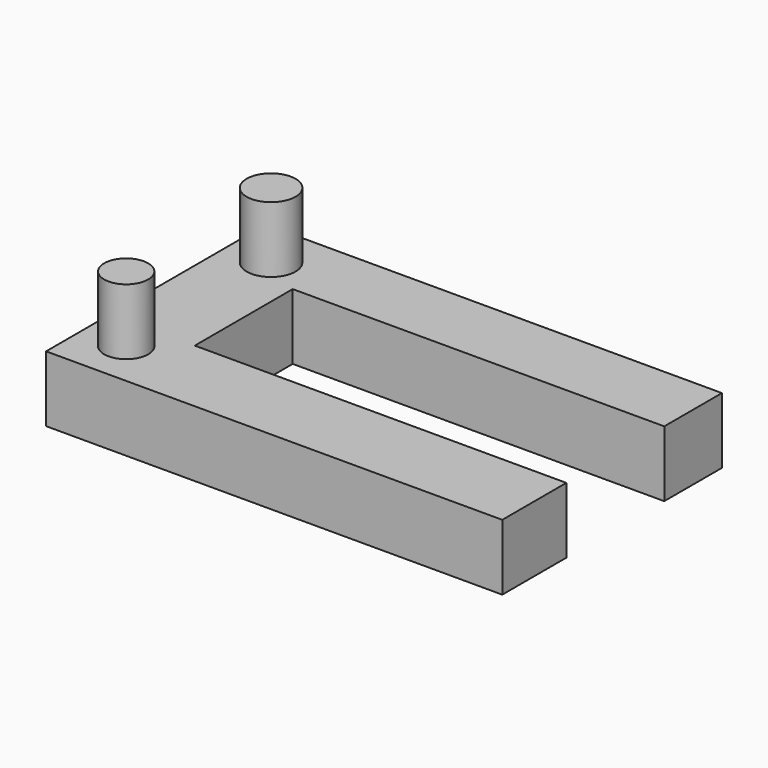
from build123d import *

# Parameters (mm, degrees)
F1_DEPTH = 25.4
F2_R     = 9.414196
F2_R_2   = 8.478638
F3_DEPTH = 25.4


with BuildPart() as f1:
    # F0 (on Top) → F1 (new body)
    with BuildSketch(Plane.XY):
        Polygon((0, 105.842702), (0, 0), (175.859332, 0), (175.859332, 30.87078), (32.630205, 30.87078), (32.630205, 78.058995), (175.859332, 78.058995), (175.859332, 105.842702), align=None)
    extrude(amount=F1_DEPTH)

    # F2 (on face) → F3 (join)
    with BuildSketch(Plane.XY.offset(25.4)):
        with Locations((16.756006, 87.473191)):
            Circle(F2_R)
        with Locations((16.756006, 17.66476)):
            Circle(F2_R_2)
    extrude(amount=F3_DEPTH)


solid = f1.part
